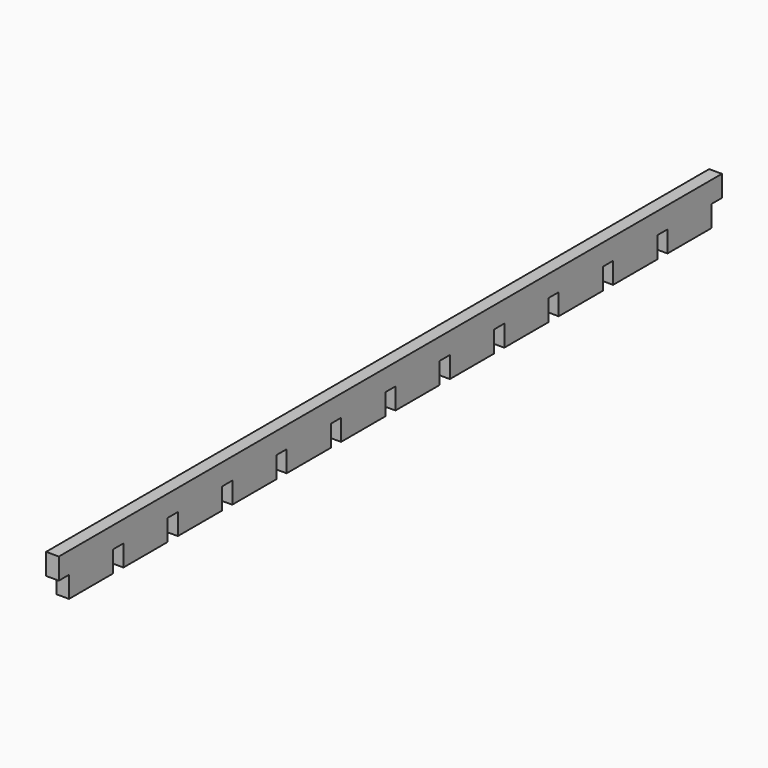
from build123d import *

# Parameters (mm, degrees)
F0_W     = 1.5
F0_H     = 5
F0_W_2   = 3
F1_DEPTH = 3


with BuildPart() as f1:
    # F0 (on Right) → F1 (new body)
    with BuildSketch(Plane.YZ):
        Polygon((1.5, 5), (1.5, 0), (11.5, 0), (14.5, 0), (14.5, 5), (14.5, 10), (11.5, 10), (1.5, 10), align=None)
        Polygon((17.5, 5), (17.5, 0), (20.5, 0), (30.5, 0), (30.5, 5), (30.5, 10), (20.5, 10), (17.5, 10), align=None)
        with Locations((0.75, 7.5)):
            Rectangle(F0_W, F0_H)
        with Locations((-0.75, 7.5)):
            Rectangle(F0_W, F0_H)
        with Locations((16, 7.5)):
            Rectangle(F0_W_2, F0_H)
        with Locations((32, 7.5)):
            Rectangle(F0_W_2, F0_H)
        with Locations((48, 7.5)):
            Rectangle(F0_W_2, F0_H)
        with Locations((64, 7.5)):
            Rectangle(F0_W_2, F0_H)
        with Locations((80, 7.5)):
            Rectangle(F0_W_2, F0_H)
        with Locations((95.25, 7.5)):
            Rectangle(F0_W, F0_H)
        with Locations((96.75, 7.5)):
            Rectangle(F0_W, F0_H)
        with Locations((112, 7.5)):
            Rectangle(F0_W_2, F0_H)
        with Locations((128, 7.5)):
            Rectangle(F0_W_2, F0_H)
        with Locations((144, 7.5)):
            Rectangle(F0_W_2, F0_H)
        with Locations((160, 7.5)):
            Rectangle(F0_W_2, F0_H)
        with Locations((176, 7.5)):
            Rectangle(F0_W_2, F0_H)
        with Locations((191.25, 7.5)):
            Rectangle(F0_W, F0_H)
        with Locations((192.75, 7.5)):
            Rectangle(F0_W, F0_H)
        Polygon((33.5, 5), (33.5, 0), (43.5, 0), (46.5, 0), (46.5, 5), (46.5, 10), (33.5, 10), align=None)
        Polygon((49.5, 5), (49.5, 0), (52.5, 0), (62.5, 0), (62.5, 5), (62.5, 10), (49.5, 10), align=None)
        Polygon((78.5, 10), (65.5, 10), (65.5, 5), (65.5, 0), (75.5, 0), (78.5, 0), (78.5, 5), align=None)
        Polygon((94.5, 10), (81.5, 10), (81.5, 5), (81.5, 0), (84.5, 0), (94.5, 0), (94.5, 5), align=None)
        Polygon((110.5, 10), (97.5, 10), (97.5, 5), (97.5, 0), (107.5, 0), (110.5, 0), (110.5, 5), align=None)
        Polygon((126.5, 10), (113.5, 10), (113.5, 5), (113.5, 0), (116.5, 0), (126.5, 0), (126.5, 5), align=None)
        Polygon((142.5, 10), (129.5, 10), (129.5, 5), (129.5, 0), (139.5, 0), (142.5, 0), (142.5, 5), align=None)
        Polygon((158.5, 10), (145.5, 10), (145.5, 5), (145.5, 0), (148.5, 0), (158.5, 0), (158.5, 5), align=None)
        Polygon((171.5, 10), (161.5, 10), (161.5, 5), (161.5, 0), (171.5, 0), (174.5, 0), (174.5, 5), (174.5, 10), align=None)
        Polygon((180.5, 10), (177.5, 10), (177.5, 5), (177.5, 0), (180.5, 0), (190.5, 0), (190.5, 5), (190.5, 10), align=None)
    extrude(amount=F1_DEPTH)


solid = f1.part
